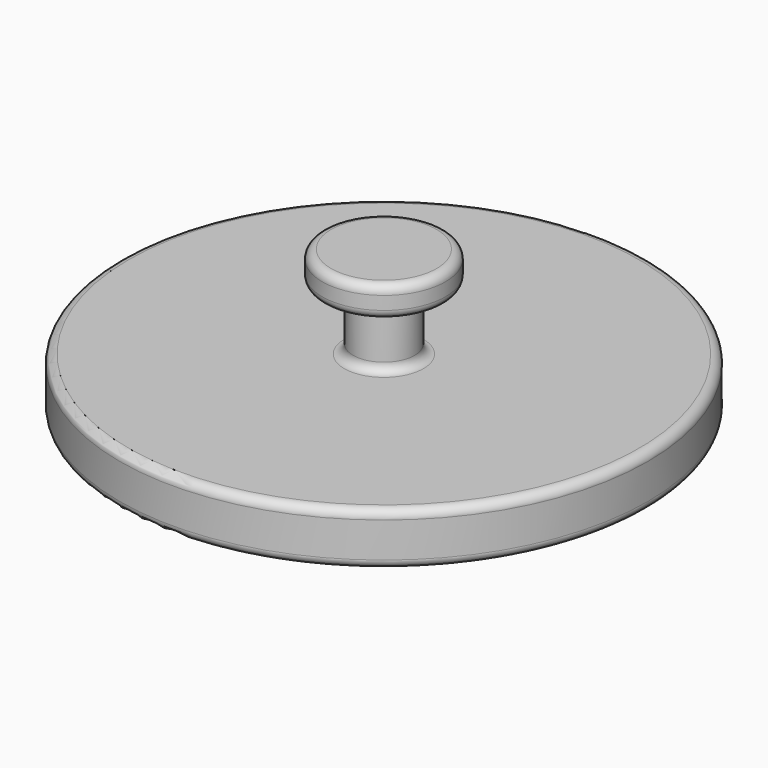
from build123d import *

# Parameters (mm, degrees)
FILLET_R = 0.5


with BuildPart() as part:
    # Sketch → Revolution (revolve)
    with BuildSketch(Plane.XZ):
        Polygon((0, 0), (-15, 0), (-15, 3), (-1.75, 3), (-1.75, 6.5), (-3.5, 6.5), (-3.5, 8.25), (0, 8.25), align=None)
    revolve(axis=Axis((0, 0, 0), (0, 0, 1)))

    # Fillet
    fillet_edges = [part.edges().sort_by_distance(p)[0] for p in [
        (15, 0, 0),
        (15, 0, 3),
        (-15, 0, 1.5),
        (1.75, 0, 3),
        (1.75, 0, 6.5),
        (-1.75, 0, 4.75),
        (3.5, 0, 6.5),
        (3.5, 0, 8.25),
        (-3.5, 0, 7.375),
    ]]
    fillet(fillet_edges, radius=FILLET_R)


solid = part.part
